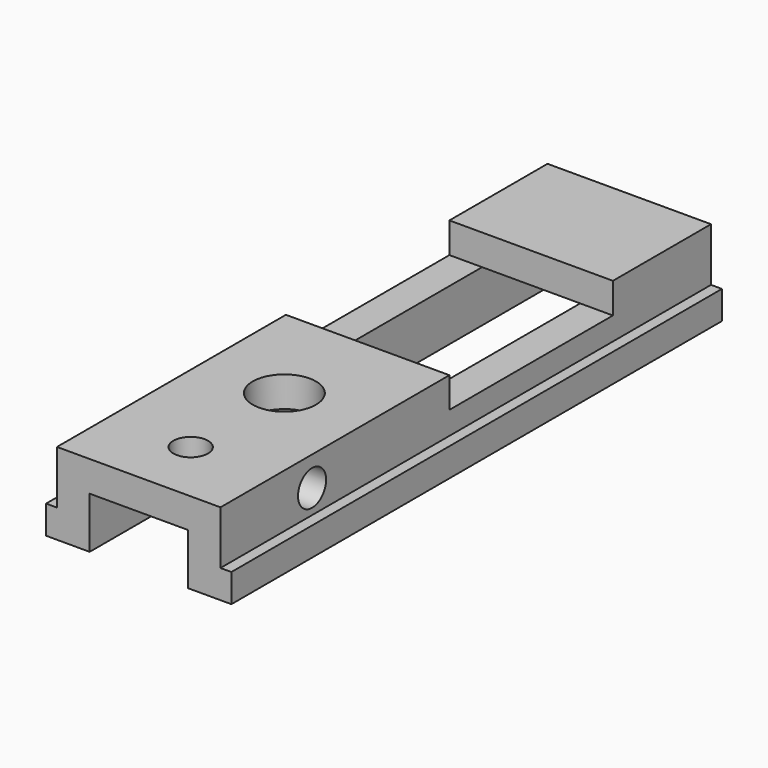
from build123d import *

# Parameters (mm, degrees)
F1_DEPTH = 71.4375
F2_R     = 3.683
F2_R_2   = 2.0193
F3_DEPTH = 9.526
F4_R     = 2.0447
F5_DEPTH = 20.321
F6_W     = 19.05
F6_H     = 23.8125
F7_DEPTH = 3.556


with BuildPart() as f1:
    # F0 (on Front) → F1 (new body)
    with BuildSketch(Plane.XZ):
        Polygon((9.525, 9.525), (-9.525, 9.525), (-9.525, 3.302), (-10.795, 3.302), (-10.795, 0), (-5.715, 0), (-5.715, 5.969), (5.715, 5.969), (5.715, 0), (10.795, 0), (10.795, 3.302), (9.525, 3.302), align=None)
    extrude(amount=F1_DEPTH)

    # F2 (on face) → F3 (cut, through all)
    with BuildSketch(Plane.XY.offset(9.525)):
        with Locations((0, -50.2285)):
            Circle(F2_R)
        with Locations((0, -63.8683)):
            Circle(F2_R_2)
    extrude(amount=-F3_DEPTH, mode=Mode.SUBTRACT)

    # F4 (on face) → F5 (cut, through all)
    with BuildSketch(Plane.YZ.offset(9.525)):
        with Locations((-58.1025, 6.096)):
            Circle(F4_R)
    extrude(amount=-F5_DEPTH, mode=Mode.SUBTRACT)

    # F6 (on face) → F7 (cut)
    with BuildSketch(Plane.XY.offset(9.525)):
        with Locations((0, -26.19375)):
            Rectangle(F6_W, F6_H)
    extrude(amount=-F7_DEPTH, mode=Mode.SUBTRACT)


solid = f1.part
